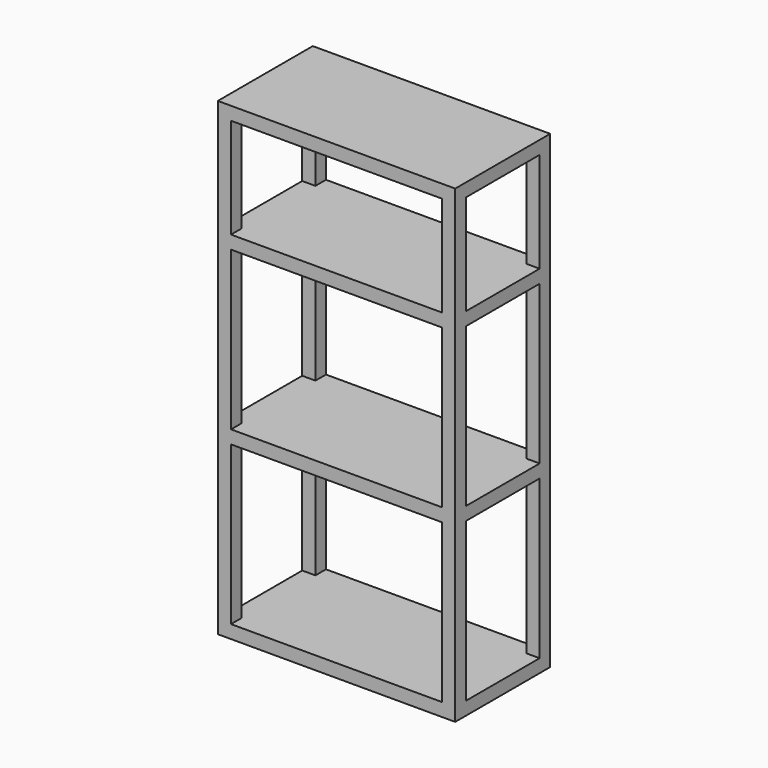
from build123d import *

# Parameters (mm, degrees)
F0_W     = 900
F0_H     = 1780
F0_W_2   = 800
F0_H_2   = 600
F0_H_3   = 380
F1_DEPTH = 450
F2_W     = 350
F2_H     = 380
F2_H_2   = 600
F3_DEPTH = 900.001


with BuildPart() as f1:
    # F0 (on Front) → F1 (new body)
    with BuildSketch(Plane.XZ):
        Rectangle(F0_W, F0_H)
        with Locations((0, -540)):
            Rectangle(F0_W_2, F0_H_2, mode=Mode.SUBTRACT)
        with Locations((0, 110)):
            Rectangle(F0_W_2, F0_H_2, mode=Mode.SUBTRACT)
        with Locations((0, 650)):
            Rectangle(F0_W_2, F0_H_3, mode=Mode.SUBTRACT)
    extrude(amount=F1_DEPTH)

    # F2 (on face) → F3 (cut, through all)
    with BuildSketch(Plane.YZ.offset(450)):
        with Locations((-225, 650)):
            Rectangle(F2_W, F2_H)
        with Locations((-225, 110)):
            Rectangle(F2_W, F2_H_2)
        with Locations((-225, -540)):
            Rectangle(F2_W, F2_H_2)
    extrude(amount=-F3_DEPTH, mode=Mode.SUBTRACT)


solid = f1.part
